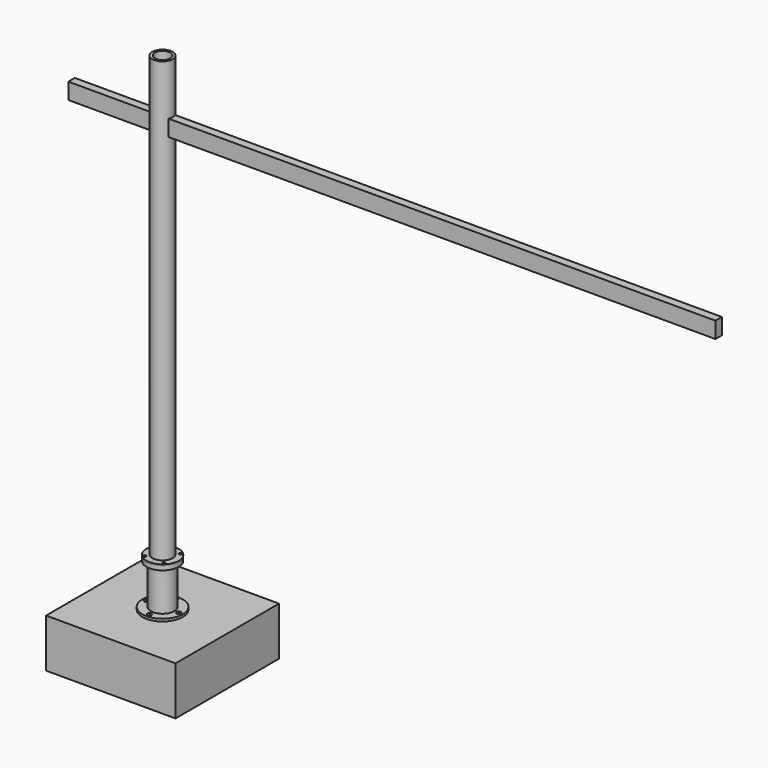
from build123d import *

# Parameters (mm, degrees)
F0_W              = 800
F0_H              = 800
F1_DEPTH          = 300
F2_R              = 125
F3_DEPTH          = 15
F4_R              = 62.5
F4_R_2            = 47.5
F5_DEPTH          = 3000
F7_W              = 50
F7_H              = 100
F8_DEPTH          = 462.501
F9_W              = 50
F9_H              = 100
F10_DEPTH         = 3500
F10_DEPTH_BACK    = 500
F11_R             = 73
F11_R_2           = 63
F12_DEPTH         = 250
F13_R             = 100
F13_R_2           = 63
F14_DEPTH         = 25
F15_R             = 63
F15_R_2           = 58
F16_DEPTH         = 10
F18_DEPTH         = 8
F21_D             = 8.8
F21_DEPTH         = 50
F21_CSINK_D       = 17.92
F21_CSINK_ANGLE   = 90
F21_TIP           = 2.6437867237
F21_2_D           = 8.8
F21_2_DEPTH       = 50
F21_2_CSINK_D     = 17.92
F21_2_CSINK_ANGLE = 90
F21_2_TIP         = 2.6437867237
F21_3_D           = 8.8
F21_3_DEPTH       = 50
F21_3_CSINK_D     = 17.92
F21_3_CSINK_ANGLE = 90
F21_3_TIP         = 2.6437867237
F23_D             = 13.2
F23_DEPTH         = 50
F23_CSINK_D       = 26.88
F23_CSINK_ANGLE   = 90
F23_TIP           = 3.9656800856


with BuildPart() as f1:
    # F0 (on Top) → F1 (new body)
    with BuildSketch(Plane.XY):
        Rectangle(F0_W, F0_H)
    extrude(amount=-F1_DEPTH)


with BuildPart() as f3:
    # F2 (on face) → F3 (new body)
    with BuildSketch(Plane.XY):
        Circle(F2_R)
    extrude(amount=F3_DEPTH)

    # F11 (on face) → F12 (join)
    with BuildSketch(Plane.XY.offset(15)):
        Circle(F11_R)
        Circle(F11_R_2, mode=Mode.SUBTRACT)
    extrude(amount=F12_DEPTH)

    # F13 (on face) → F14 (join)
    with BuildSketch(Plane.XY.offset(265)):
        Circle(F13_R)
        Circle(F13_R_2, mode=Mode.SUBTRACT)
    extrude(amount=F14_DEPTH)

    # F21
    with Locations(Plane.XY.offset(298)):
        with Locations((-59.8465768144, 63.8328852834), (59.8465768144, 63.8328852834), (59.8465768144, -63.8328852834), (-59.8465768144, -63.8328852834)):
            CounterSinkHole(F21_D / 2, F21_CSINK_D / 2, depth=F21_DEPTH, counter_sink_angle=F21_CSINK_ANGLE)
            with Locations((0, 0, -(F21_DEPTH + F21_TIP / 2))):  # 118° drill point
                Cone(0, F21_D / 2, F21_TIP, mode=Mode.SUBTRACT)

    # F23
    with Locations(Plane.XY.offset(15)):
        with Locations((0, 100), (0, -100), (100, 0), (-100, 0)):
            CounterSinkHole(F23_D / 2, F23_CSINK_D / 2, depth=F23_DEPTH, counter_sink_angle=F23_CSINK_ANGLE)
            with Locations((0, 0, -(F23_DEPTH + F23_TIP / 2))):  # 118° drill point
                Cone(0, F23_D / 2, F23_TIP, mode=Mode.SUBTRACT)


with BuildPart() as f5:
    # F4 (on face) → F5 (new body)
    with BuildSketch(Plane.XY.offset(15)):
        Circle(F4_R)
        Circle(F4_R_2, mode=Mode.SUBTRACT)
    extrude(amount=F5_DEPTH)

    # F7 (on offset) → F8 (cut, through all)
    with BuildSketch(Plane.YZ.offset(-62.5)):
        with Locations((0, 2650)):
            Rectangle(F7_W, F7_H)
    extrude(amount=F8_DEPTH, mode=Mode.SUBTRACT)

    # F15 (on face) → F16 (cut)
    with BuildSketch(Plane.XY.offset(290)):
        Circle(F15_R)
        Circle(F15_R_2, mode=Mode.SUBTRACT)
    extrude(amount=F16_DEPTH, mode=Mode.SUBTRACT)


with BuildPart() as f10:
    # F9 (on offset) → F10 (new body, two sides)
    with BuildSketch(Plane.YZ.offset(-62.5)) as f10_sk:
        with Locations((0, 2650)):
            Rectangle(F9_W, F9_H)
    extrude(amount=F10_DEPTH)
    extrude(f10_sk.sketch, amount=-F10_DEPTH_BACK)


with BuildPart() as f18:
    # F17 (on face) → F18 (new body)
    with BuildSketch(Plane.XY.offset(290)):
        with BuildLine():
            ThreePointArc((0, 59), (59, 0), (0, -59))
            Line((0, -59), (0, -100))
            ThreePointArc((0, -100), (100, 0), (0, 100))
            Line((0, 100), (0, 59))
        make_face()
    extrude(amount=F18_DEPTH)


with BuildPart() as f19_1:
    # F19: instance of F18
    add(f18.part.mirror(Plane(origin=(0, -79.5, 294), x_dir=(0, -1, 0), z_dir=(-1, 0, 0))))

    # F21#3
    with Locations(Plane.XY.offset(298)):
        with Locations((-59.8465768144, 63.8328852834), (59.8465768144, 63.8328852834), (59.8465768144, -63.8328852834), (-59.8465768144, -63.8328852834)):
            CounterSinkHole(F21_3_D / 2, F21_3_CSINK_D / 2, depth=F21_3_DEPTH, counter_sink_angle=F21_3_CSINK_ANGLE)
            with Locations((0, 0, -(F21_3_DEPTH + F21_3_TIP / 2))):  # 118° drill point
                Cone(0, F21_3_D / 2, F21_3_TIP, mode=Mode.SUBTRACT)


with BuildPart() as f18_1:
    add(f18.part)

    # F21#2
    with Locations(Plane.XY.offset(298)):
        with Locations((-59.8465768144, 63.8328852834), (59.8465768144, 63.8328852834), (59.8465768144, -63.8328852834), (-59.8465768144, -63.8328852834)):
            CounterSinkHole(F21_2_D / 2, F21_2_CSINK_D / 2, depth=F21_2_DEPTH, counter_sink_angle=F21_2_CSINK_ANGLE)
            with Locations((0, 0, -(F21_2_DEPTH + F21_2_TIP / 2))):  # 118° drill point
                Cone(0, F21_2_D / 2, F21_2_TIP, mode=Mode.SUBTRACT)


solid = Compound([f1.part, f3.part, f5.part, f10.part, f19_1.part, f18_1.part])
